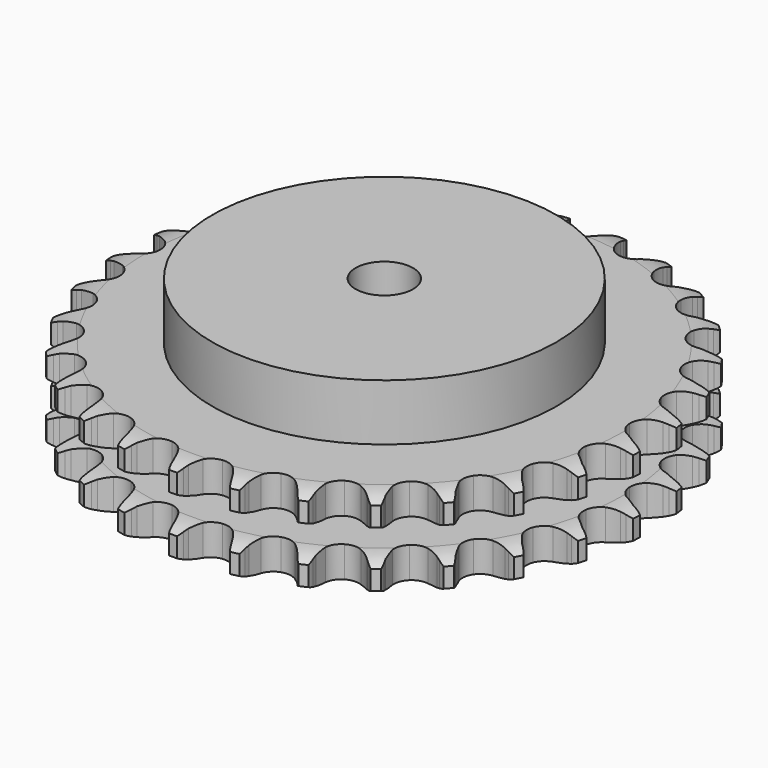
from build123d import *

# Parameters (mm, degrees)
PAD_DEPTH         = 30.3
SKETCH001_R       = 60
PAD001_DEPTH      = 50
SKETCH002_R       = 10
POCKET_DEPTH      = 0.001
POCKET_DEPTH_BACK = 50.001


with BuildPart() as part:
    # Sprocket → Pad (new body)
    with BuildSketch(Plane.XY):
        with BuildLine():
            ThreePointArc((-10.17655, 93.571831), (-8.665121, 91.838888), (-7.596306, 89.802925))
            Line((-7.596306, 89.802925), (-7.007926, 88.270144))
            ThreePointArc((-7.007926, 88.270144), (-6.074148, 86.269221), (-4.869867, 84.418452))
            ThreePointArc((-4.869867, 84.418452), (-2.71998, 82.633691), (0, 81.994084))
            ThreePointArc((0, 81.994084), (2.71998, 82.633691), (4.869867, 84.418452))
            ThreePointArc((4.869867, 84.418452), (6.074148, 86.269221), (7.007926, 88.270144))
            Line((7.007926, 88.270144), (7.596306, 89.802925))
            ThreePointArc((7.596306, 89.802925), (8.665121, 91.838888), (10.17655, 93.571831))
            ThreePointArc((10.17655, 93.571831), (11.280111, 91.554491), (11.886266, 89.336364))
            Line((11.886266, 89.336364), (12.131387, 87.712934))
            ThreePointArc((12.131387, 87.712934), (12.613195, 85.558057), (13.391459, 83.491673))
            ThreePointArc((13.391459, 83.491673), (15.107412, 81.286476), (17.626304, 80.077108))
            ThreePointArc((17.626304, 80.077108), (20.420189, 80.117046), (22.903484, 81.397918))
            Line((22.903484, 81.397918), (25.819557, 84.69994))
            ThreePointArc((25.819557, 84.69994), (26.253761, 85.396953), (26.723683, 86.070402))
            ThreePointArc((26.723683, 86.070402), (28.205182, 87.829001), (30.053806, 89.196517))
            ThreePointArc((30.053806, 89.196517), (30.697897, 86.989107), (30.813049, 84.692534))
            Line((30.813049, 84.692534), (30.70345, 83.054365))
            ThreePointArc((30.70345, 83.054365), (30.710759, 80.846293), (31.026616, 78.660916))
            ThreePointArc((31.026616, 78.660916), (32.228399, 76.138397), (34.428422, 74.415815))
            ThreePointArc((34.428422, 74.415815), (37.165573, 73.854216), (39.86616, 74.571308))
            Line((39.86616, 74.571308), (43.423893, 77.169261))
            ThreePointArc((43.423893, 77.169261), (43.997783, 77.756637), (44.60149, 78.313322))
            ThreePointArc((44.60149, 78.313322), (46.426399, 79.712327), (48.525779, 80.650472))
            ThreePointArc((48.525779, 80.650472), (48.680284, 78.35621), (48.299048, 76.088575))
            Line((48.299048, 76.088575), (47.839853, 74.512266))
            ThreePointArc((47.839853, 74.512266), (47.372321, 72.354246), (47.211003, 70.152063))
            ThreePointArc((47.211003, 70.152063), (47.842422, 67.43017), (49.620706, 65.274922))
            ThreePointArc((49.620706, 65.274922), (52.173136, 64.138046), (54.964738, 64.257826))
            Line((54.964738, 64.257826), (58.997777, 66.030233))
            ThreePointArc((58.997777, 66.030233), (59.684518, 66.480508), (60.393782, 66.894398))
            ThreePointArc((60.393782, 66.894398), (62.47677, 67.868394), (64.72874, 68.333301))
            ThreePointArc((64.72874, 68.333301), (64.386435, 66.059463), (63.526638, 63.926799))
            Line((63.526638, 63.926799), (62.739319, 62.486056))
            ThreePointArc((62.739319, 62.486056), (61.818807, 60.478995), (61.187856, 58.362976))
            ThreePointArc((61.187856, 58.362976), (61.219386, 55.568984), (62.49278, 53.081846))
            ThreePointArc((62.49278, 53.081846), (64.741141, 51.422852), (67.493226, 50.93972))
            Line((67.493226, 50.93972), (71.81299, 51.803705))
            ThreePointArc((71.81299, 51.803705), (72.580471, 52.095823), (73.362127, 52.347566))
            ThreePointArc((73.362127, 52.347566), (75.605796, 52.85101), (77.905058, 52.82094))
            ThreePointArc((77.905058, 52.82094), (77.081948, 50.673849), (75.783792, 48.775876))
            Line((75.783792, 48.775876), (74.705164, 47.538068))
            ThreePointArc((74.705164, 47.538068), (73.374714, 45.775814), (72.303632, 43.844902))
            ThreePointArc((72.303632, 43.844902), (71.733799, 41.109453), (72.442761, 38.406721))
            ThreePointArc((72.442761, 38.406721), (74.281923, 36.303183), (76.865806, 35.239729))
            Line((76.865806, 35.239729), (81.270307, 35.154893))
            ThreePointArc((81.270307, 35.154893), (82.082642, 35.275196), (82.90014, 35.35302))
            ThreePointArc((82.90014, 35.35302), (85.19958, 35.362371), (87.438622, 34.838731))
            ThreePointArc((87.438622, 34.838731), (86.173194, 32.918783), (84.497381, 31.344248))
            Line((84.497381, 31.344248), (83.177878, 30.367252))
            ThreePointArc((83.177878, 30.367252), (81.499701, 28.932206), (80.038571, 27.276689))
            ThreePointArc((80.038571, 27.276689), (78.89402, 24.727691), (79.005399, 21.935741))
            ThreePointArc((79.005399, 21.935741), (80.349364, 19.486017), (82.644227, 17.891967))
            Line((82.644227, 17.891967), (86.927516, 16.862277))
            ThreePointArc((86.927516, 16.862277), (87.74672, 16.80514), (88.561835, 16.705407))
            ThreePointArc((88.561835, 16.705407), (90.809525, 16.220228), (92.883653, 15.227502))
            ThreePointArc((92.883653, 15.227502), (91.235078, 13.62447), (89.259966, 12.446998))
            Line((89.259966, 12.446998), (87.761287, 11.776498))
            ThreePointArc((87.761287, 11.776498), (85.813852, 10.735761), (84.030996, 9.433048))
            ThreePointArc((84.030996, 9.433048), (82.365244, 7.189689), (81.873833, 4.43907))
            ThreePointArc((81.873833, 4.43907), (82.659758, 1.757707), (84.558295, -0.292403))
            Line((84.558295, -0.292403), (88.52009, -2.218799))
            ThreePointArc((88.52009, -2.218799), (89.307858, -2.450706), (90.082477, -2.723333))
            ThreePointArc((90.082477, -2.723333), (92.173319, -3.680356), (93.985548, -5.095748))
            ThreePointArc((93.985548, -5.095748), (92.030911, -6.306907), (89.848854, -7.03226))
            Line((89.848854, -7.03226), (88.241076, -7.364912))
            ThreePointArc((88.241076, -7.364912), (86.115443, -7.962677), (84.094224, -8.851671))
            ThreePointArc((84.094224, -8.851671), (81.985161, -10.684495), (80.913937, -13.265167))
            ThreePointArc((80.913937, -13.265167), (81.105074, -16.052792), (82.518511, -18.4631))
            Line((82.518511, -18.4631), (85.973563, -21.196128))
            ThreePointArc((85.973563, -21.196128), (86.693061, -21.591959), (87.390963, -22.024733))
            ThreePointArc((87.390963, -22.024733), (89.22719, -23.40885), (90.692782, -25.180727))
            ThreePointArc((90.692782, -25.180727), (88.523481, -25.943381), (86.23651, -26.182698))
            Line((86.23651, -26.182698), (84.59481, -26.161948))
            ThreePointArc((84.59481, -26.161948), (82.390372, -26.288789), (80.225301, -26.722497))
            ThreePointArc((80.225301, -26.722497), (77.771543, -28.059084), (76.170595, -30.349139))
            ThreePointArc((76.170595, -30.349139), (75.758006, -33.11268), (76.620253, -35.770484))
            Line((76.620253, -35.770484), (79.407008, -39.182349))
            ThreePointArc((79.407008, -39.182349), (80.024592, -39.723597), (80.613144, -40.296281))
            ThreePointArc((80.613144, -40.296281), (82.108897, -42.042773), (83.159324, -44.088283))
            ThreePointArc((83.159324, -44.088283), (80.876791, -44.366771), (78.591842, -44.108861))
            Line((78.591842, -44.108861), (76.992985, -43.735679))
            ThreePointArc((76.992985, -43.735679), (74.812818, -43.385666), (72.605131, -43.343808))
            ThreePointArc((72.605131, -43.343808), (69.921414, -44.121661), (67.865601, -46.014019))
            ThreePointArc((67.865601, -46.014019), (66.868579, -48.624256), (67.139317, -51.405279))
            Line((67.139317, -51.405279), (69.127469, -55.336447))
            ThreePointArc((69.127469, -55.336447), (69.614263, -55.997803), (70.065945, -56.683619))
            ThreePointArc((70.065945, -56.683619), (71.151283, -58.710822), (71.737427, -60.93432))
            ThreePointArc((71.737427, -60.93432), (69.448393, -60.715619), (67.272307, -59.972543))
            Line((67.272307, -59.972543), (65.791053, -59.264379))
            ThreePointArc((65.791053, -59.264379), (63.7371, -58.453878), (61.590026, -57.938411))
            ThreePointArc((61.590026, -57.938411), (58.801838, -58.121158), (56.387287, -59.527335))
            ThreePointArc((56.387287, -59.527335), (54.852451, -61.862216), (54.519022, -64.636421))
            Line((54.519022, -64.636421), (55.615607, -68.903074))
            ThreePointArc((55.615607, -68.903074), (55.948848, -69.653614), (56.242539, -70.420495))
            ThreePointArc((56.242539, -70.420495), (56.866715, -72.633618), (56.961168, -74.931136))
            ThreePointArc((56.961168, -74.931136), (54.772664, -74.225474), (52.807194, -73.031976))
            Line((52.807194, -73.031976), (51.512805, -72.021943))
            ThreePointArc((51.512805, -72.021943), (49.681107, -70.788851), (47.69504, -69.823878))
            ThreePointArc((47.69504, -69.823878), (44.932753, -69.402975), (42.272366, -70.257219))
            ThreePointArc((42.272366, -70.257219), (40.271483, -72.207567), (39.349478, -74.845236))
            Line((39.349478, -74.845236), (39.503221, -79.24787))
            ThreePointArc((39.503221, -79.24787), (39.667327, -80.0525), (39.789295, -80.864586))
            ThreePointArc((39.789295, -80.864586), (39.923122, -83.160147), (39.521469, -85.424255))
            ThreePointArc((39.521469, -85.424255), (37.535827, -84.264627), (35.872875, -82.676515))
            Line((35.872875, -82.676515), (34.825876, -81.41184))
            ThreePointArc((34.825876, -81.41184), (33.30208, -79.813816), (31.569886, -78.444458))
            ThreePointArc((31.569886, -78.444458), (28.962662, -77.439585), (26.180837, -77.701954))
            ThreePointArc((26.180837, -77.701954), (23.807466, -79.176573), (22.339996, -81.55437))
            Line((22.339996, -81.55437), (21.543708, -85.887124))
            ThreePointArc((21.543708, -85.887124), (21.531005, -86.70822), (21.475548, -87.527539))
            ThreePointArc((21.475548, -87.527539), (21.112768, -89.7982), (20.233789, -91.923031))
            ThreePointArc((20.233789, -91.923031), (18.543856, -90.36366), (17.26118, -88.455192))
            Line((17.26118, -88.455192), (16.510527, -86.995011))
            ThreePointArc((16.510527, -86.995011), (15.365884, -85.106776), (13.96856, -83.397062))
            ThreePointArc((13.96856, -83.397062), (11.638309, -81.855207), (8.86512, -81.513431))
            ThreePointArc((8.86512, -81.513431), (6.230238, -82.44337), (4.28592, -84.450113))
            Line((4.28592, -84.450113), (2.576836, -88.510391))
            ThreePointArc((2.576836, -88.510391), (2.387918, -89.309559), (2.157628, -90.097802))
            ThreePointArc((2.157628, -90.097802), (1.315204, -92.237389), (0, -94.123588))
            ThreePointArc((0, -94.123588), (-1.315204, -92.237389), (-2.157628, -90.097802))
            Line((-2.157628, -90.097802), (-2.576836, -88.510391))
            ThreePointArc((-2.576836, -88.510391), (-3.288803, -86.420238), (-4.28592, -84.450113))
            ThreePointArc((-4.28592, -84.450113), (-6.230238, -82.44337), (-8.86512, -81.513431))
            ThreePointArc((-8.86512, -81.513431), (-11.638309, -81.855207), (-13.96856, -83.397062))
            Line((-13.96856, -83.397062), (-16.510527, -86.995011))
            ThreePointArc((-16.510527, -86.995011), (-16.866825, -87.734883), (-17.26118, -88.455192))
            ThreePointArc((-17.26118, -88.455192), (-18.543856, -90.36366), (-20.233789, -91.923031))
            ThreePointArc((-20.233789, -91.923031), (-21.112768, -89.7982), (-21.475548, -87.527539))
            Line((-21.475548, -87.527539), (-21.543708, -85.887124))
            ThreePointArc((-21.543708, -85.887124), (-21.789709, -83.692786), (-22.339996, -81.55437))
            ThreePointArc((-22.339996, -81.55437), (-23.807466, -79.176573), (-26.180837, -77.701954))
            ThreePointArc((-26.180837, -77.701954), (-28.962662, -77.439585), (-31.569886, -78.444458))
            Line((-31.569886, -78.444458), (-34.825876, -81.41184))
            ThreePointArc((-34.825876, -81.41184), (-35.332895, -82.057822), (-35.872875, -82.676515))
            ThreePointArc((-35.872875, -82.676515), (-37.535827, -84.264627), (-39.521469, -85.424255))
            ThreePointArc((-39.521469, -85.424255), (-39.923122, -83.160147), (-39.789295, -80.864586))
            Line((-39.789295, -80.864586), (-39.503221, -79.24787))
            ThreePointArc((-39.503221, -79.24787), (-39.271753, -77.051951), (-39.349478, -74.845236))
            ThreePointArc((-39.349478, -74.845236), (-40.271483, -72.207567), (-42.272366, -70.257219))
            ThreePointArc((-42.272366, -70.257219), (-44.932753, -69.402975), (-47.69504, -69.823878))
            Line((-47.69504, -69.823878), (-51.512805, -72.021943))
            ThreePointArc((-51.512805, -72.021943), (-52.146837, -72.543827), (-52.807194, -73.031976))
            ThreePointArc((-52.807194, -73.031976), (-54.772664, -74.225474), (-56.961168, -74.931136))
            ThreePointArc((-56.961168, -74.931136), (-56.866715, -72.633618), (-56.242539, -70.420495))
            Line((-56.242539, -70.420495), (-55.615607, -68.903074))
            ThreePointArc((-55.615607, -68.903074), (-54.917493, -66.808254), (-54.519022, -64.636421))
            ThreePointArc((-54.519022, -64.636421), (-54.852451, -61.862216), (-56.387287, -59.527335))
            ThreePointArc((-56.387287, -59.527335), (-58.801838, -58.121158), (-61.590026, -57.938411))
            Line((-61.590026, -57.938411), (-65.791053, -59.264379))
            ThreePointArc((-65.791053, -59.264379), (-66.522452, -59.637764), (-67.272307, -59.972543))
            ThreePointArc((-67.272307, -59.972543), (-69.448393, -60.715619), (-71.737427, -60.93432))
            ThreePointArc((-71.737427, -60.93432), (-71.151283, -58.710822), (-70.065945, -56.683619))
            Line((-70.065945, -56.683619), (-69.127469, -55.336447))
            ThreePointArc((-69.127469, -55.336447), (-67.995352, -53.440676), (-67.139317, -51.405279))
            ThreePointArc((-67.139317, -51.405279), (-66.868579, -48.624256), (-67.865601, -46.014019))
            ThreePointArc((-67.865601, -46.014019), (-69.921414, -44.121661), (-72.605131, -43.343808))
            Line((-72.605131, -43.343808), (-76.992985, -43.735679))
            ThreePointArc((-76.992985, -43.735679), (-77.78755, -43.943106), (-78.591842, -44.108861))
            ThreePointArc((-78.591842, -44.108861), (-80.876791, -44.366771), (-83.159324, -44.088283))
            ThreePointArc((-83.159324, -44.088283), (-82.108897, -42.042773), (-80.613144, -40.296281))
            Line((-80.613144, -40.296281), (-79.407008, -39.182349))
            ThreePointArc((-79.407008, -39.182349), (-77.893824, -37.574272), (-76.620253, -35.770484))
            ThreePointArc((-76.620253, -35.770484), (-75.758006, -33.11268), (-76.170595, -30.349139))
            ThreePointArc((-76.170595, -30.349139), (-77.771543, -28.059084), (-80.225301, -26.722497))
            Line((-80.225301, -26.722497), (-84.59481, -26.161948))
            ThreePointArc((-84.59481, -26.161948), (-85.415389, -26.193717), (-86.23651, -26.182698))
            ThreePointArc((-86.23651, -26.182698), (-88.523481, -25.943381), (-90.692782, -25.180727))
            ThreePointArc((-90.692782, -25.180727), (-89.22719, -23.40885), (-87.390963, -22.024733))
            Line((-87.390963, -22.024733), (-85.973563, -21.196128))
            ThreePointArc((-85.973563, -21.196128), (-84.150068, -19.950937), (-82.518511, -18.4631))
            ThreePointArc((-82.518511, -18.4631), (-81.105074, -16.052792), (-80.913937, -13.265167))
            ThreePointArc((-80.913937, -13.265167), (-81.985161, -10.684495), (-84.094224, -8.851671))
            Line((-84.094224, -8.851671), (-88.241076, -7.364912))
            ThreePointArc((-88.241076, -7.364912), (-89.0493, -7.219538), (-89.848854, -7.03226))
            ThreePointArc((-89.848854, -7.03226), (-92.030911, -6.306907), (-93.985548, -5.095748))
            ThreePointArc((-93.985548, -5.095748), (-92.173319, -3.680356), (-90.082477, -2.723333))
            Line((-90.082477, -2.723333), (-88.52009, -2.218799))
            ThreePointArc((-88.52009, -2.218799), (-86.471548, -1.394718), (-84.558295, -0.292403))
            ThreePointArc((-84.558295, -0.292403), (-82.659758, 1.757707), (-81.873833, 4.43907))
            ThreePointArc((-81.873833, 4.43907), (-82.365244, 7.189689), (-84.030996, 9.433048))
            Line((-84.030996, 9.433048), (-87.761287, 11.776498))
            ThreePointArc((-87.761287, 11.776498), (-88.519364, 12.092218), (-89.259966, 12.446998))
            ThreePointArc((-89.259966, 12.446998), (-91.235078, 13.62447), (-92.883653, 15.227502))
            ThreePointArc((-92.883653, 15.227502), (-90.809525, 16.220228), (-88.561835, 16.705407))
            Line((-88.561835, 16.705407), (-86.927516, 16.862277))
            ThreePointArc((-86.927516, 16.862277), (-84.749714, 17.226716), (-82.644227, 17.891967))
            ThreePointArc((-82.644227, 17.891967), (-80.349364, 19.486017), (-79.005399, 21.935741))
            ThreePointArc((-79.005399, 21.935741), (-78.89402, 24.727691), (-80.038571, 27.276689))
            Line((-80.038571, 27.276689), (-83.177878, 30.367252))
            ThreePointArc((-83.177878, 30.367252), (-83.850361, 30.838555), (-84.497381, 31.344248))
            ThreePointArc((-84.497381, 31.344248), (-86.173194, 32.918783), (-87.438622, 34.838731))
            ThreePointArc((-87.438622, 34.838731), (-85.19958, 35.362371), (-82.90014, 35.35302))
            Line((-82.90014, 35.35302), (-81.270307, 35.154893))
            ThreePointArc((-81.270307, 35.154893), (-79.065078, 35.042649), (-76.865806, 35.239729))
            ThreePointArc((-76.865806, 35.239729), (-74.281923, 36.303183), (-72.442761, 38.406721))
            ThreePointArc((-72.442761, 38.406721), (-71.733799, 41.109453), (-72.303632, 43.844902))
            Line((-72.303632, 43.844902), (-74.705164, 47.538068))
            ThreePointArc((-74.705164, 47.538068), (-75.260609, 48.142916), (-75.783792, 48.775876))
            ThreePointArc((-75.783792, 48.775876), (-77.081948, 50.673849), (-77.905058, 52.82094))
            ThreePointArc((-77.905058, 52.82094), (-75.605796, 52.85101), (-73.362127, 52.347566))
            Line((-73.362127, 52.347566), (-71.81299, 51.803705))
            ThreePointArc((-71.81299, 51.803705), (-69.683447, 51.220026), (-67.493226, 50.93972))
            ThreePointArc((-67.493226, 50.93972), (-64.741141, 51.422852), (-62.49278, 53.081846))
            ThreePointArc((-62.49278, 53.081846), (-61.219386, 55.568984), (-61.187856, 58.362976))
            Line((-61.187856, 58.362976), (-62.739319, 62.486056))
            ThreePointArc((-62.739319, 62.486056), (-63.151753, 63.196167), (-63.526638, 63.926799))
            ThreePointArc((-63.526638, 63.926799), (-64.386435, 66.059463), (-64.72874, 68.333301))
            ThreePointArc((-64.72874, 68.333301), (-62.47677, 67.868394), (-60.393782, 66.894398))
            Line((-60.393782, 66.894398), (-58.997777, 66.030233))
            ThreePointArc((-58.997777, 66.030233), (-57.043495, 65.002411), (-54.964738, 64.257826))
            ThreePointArc((-54.964738, 64.257826), (-52.173136, 64.138046), (-49.620706, 65.274922))
            ThreePointArc((-49.620706, 65.274922), (-47.842422, 67.43017), (-47.211003, 70.152063))
            Line((-47.211003, 70.152063), (-47.839853, 74.512266))
            ThreePointArc((-47.839853, 74.512266), (-48.089993, 75.294436), (-48.299048, 76.088575))
            ThreePointArc((-48.299048, 76.088575), (-48.680284, 78.35621), (-48.525779, 80.650472))
            ThreePointArc((-48.525779, 80.650472), (-46.426399, 79.712327), (-44.60149, 78.313322))
            Line((-44.60149, 78.313322), (-43.423893, 77.169261))
            ThreePointArc((-43.423893, 77.169261), (-41.736253, 75.745356), (-39.86616, 74.571308))
            ThreePointArc((-39.86616, 74.571308), (-37.165573, 73.854216), (-34.428422, 74.415815))
            ThreePointArc((-34.428422, 74.415815), (-32.228399, 76.138397), (-31.026616, 78.660916))
            Line((-31.026616, 78.660916), (-30.70345, 83.054365))
            ThreePointArc((-30.70345, 83.054365), (-30.779597, 83.872021), (-30.813049, 84.692534))
            ThreePointArc((-30.813049, 84.692534), (-30.697897, 86.989107), (-30.053806, 89.196517))
            ThreePointArc((-30.053806, 89.196517), (-28.205182, 87.829001), (-26.723683, 86.070402))
            Line((-26.723683, 86.070402), (-25.819557, 84.69994))
            ThreePointArc((-25.819557, 84.69994), (-24.47747, 82.946532), (-22.903484, 81.397918))
            ThreePointArc((-22.903484, 81.397918), (-20.420189, 80.117046), (-17.626304, 80.077108))
            ThreePointArc((-17.626304, 80.077108), (-15.107412, 81.286476), (-13.391459, 83.491673))
            Line((-13.391459, 83.491673), (-12.131387, 87.712934))
            ThreePointArc((-12.131387, 87.712934), (-12.029982, 88.527843), (-11.886266, 89.336364))
            ThreePointArc((-11.886266, 89.336364), (-11.280111, 91.554491), (-10.17655, 93.571831))
        make_face()
    extrude(amount=PAD_DEPTH)

    # Sketch → Groove (revolve, cut)
    with BuildSketch(Plane.XZ):
        with BuildLine():
            ThreePointArc((83.564719, 0), (87.923618, 0.506758), (92.05, 2))
            Line((92.05, 2), (92.05, 8.8))
            ThreePointArc((92.05, 8.8), (87.923618, 10.293242), (83.564719, 10.8))
            Line((60, 10.8), (83.564719, 10.8))
            Line((60, 19.5), (60, 10.8))
            Line((83.564719, 19.5), (60, 19.5))
            ThreePointArc((83.564719, 19.5), (87.923618, 20.006758), (92.05, 21.5))
            Line((92.05, 21.5), (92.05, 28.3))
            ThreePointArc((92.05, 28.3), (87.923618, 29.793242), (83.564719, 30.3))
            Line((83.564719, 30.3), (102.05, 30.3))
            Line((102.05, 30.3), (102.05, 0))
            Line((83.564719, 0), (102.05, 0))
        make_face()
    revolve(axis=Axis((0, 0, 0), (0, 0, 1)), mode=Mode.SUBTRACT)

    # Sketch001 → Pad001 (join)
    with BuildSketch(Plane.XY):
        Circle(SKETCH001_R)
    extrude(amount=PAD001_DEPTH)

    # Sketch002 → Pocket (cut, two sides)
    with BuildSketch(Plane.XY) as pocket_sk:
        Circle(SKETCH002_R)
    extrude(amount=-POCKET_DEPTH, mode=Mode.SUBTRACT)
    extrude(pocket_sk.sketch, amount=POCKET_DEPTH_BACK, mode=Mode.SUBTRACT)


solid = part.part
